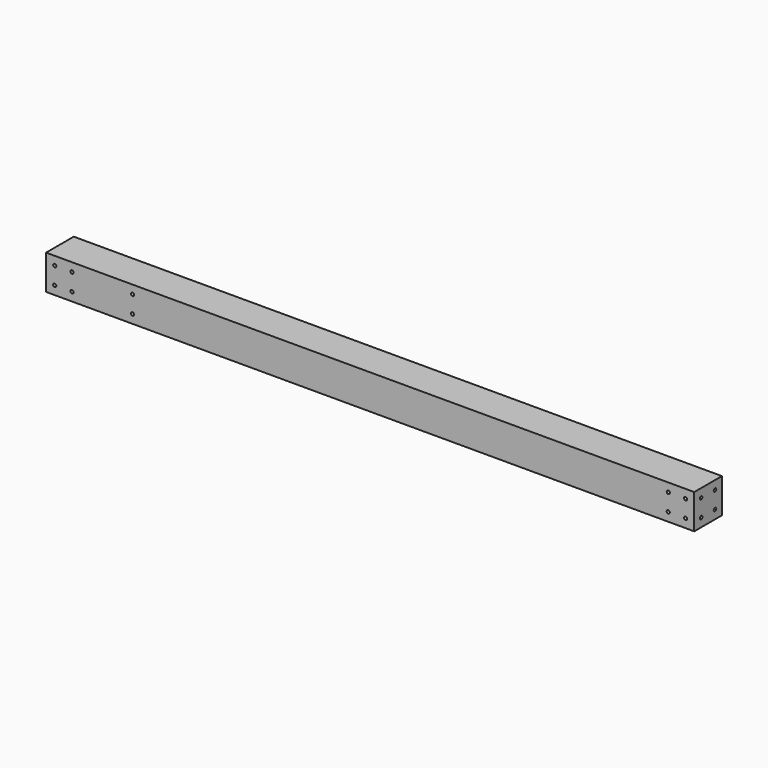
from build123d import *

# Parameters (mm, degrees)
F0_W     = 60
F0_H     = 60
F1_DEPTH = 1124
F2_D     = 5.5
F4_D     = 5.5
F5_D     = 5.5


with BuildPart() as f1:
    # F0 (on Right) → F1 (new body)
    with BuildSketch(Plane.YZ):
        with Locations((-30, 30)):
            Rectangle(F0_W, F0_H)
    extrude(amount=F1_DEPTH)

    # F2 (through all)
    with Locations(Plane(origin=(0, 0, 0), x_dir=(0, 1, 0), z_dir=(-1, 0, 0))):
        with Locations((-45, -45), (-45, -15), (-15, -15), (-15, -45)):
            Hole(F2_D / 2)

    # F4 (through all)
    with Locations(Plane.XZ.offset(60)):
        with Locations((150, 45), (150, 15)):
            Hole(F4_D / 2)

    # F5 (through all)
    with Locations(Plane.XZ.offset(60)):
        with Locations((45, 45), (15, 45), (15, 15), (45, 15), (1109, 45), (1079, 15), (1109, 15), (1079, 45)):
            Hole(F5_D / 2)


solid = f1.part
